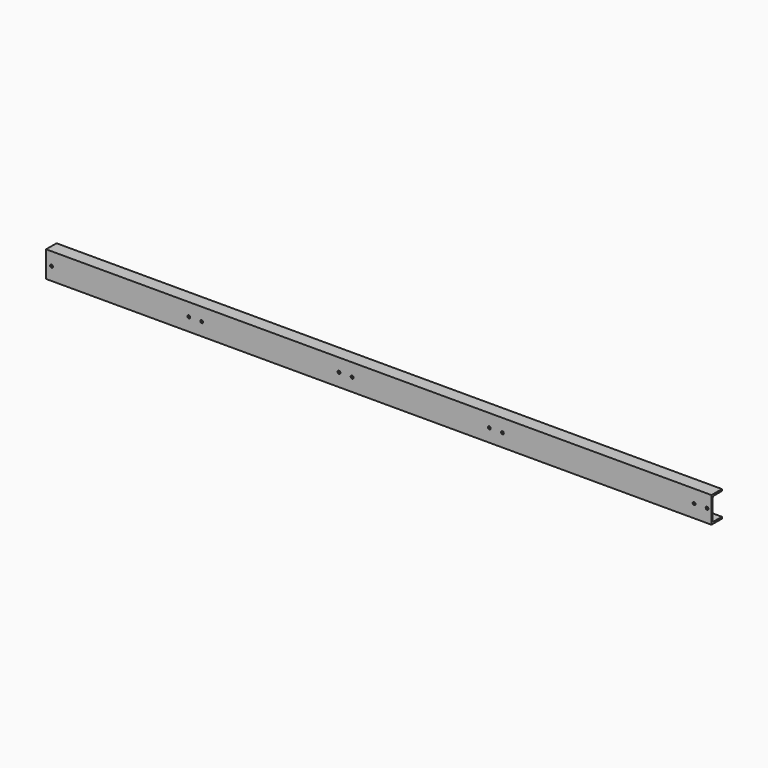
from build123d import *

# Parameters (mm, degrees)
F3_DEPTH = 3055
F4_R     = 6.5
F5_DEPTH = 8
F6_R     = 6.5
F7_DEPTH = 60.001


with BuildPart() as f3:
    # F2 (on Right) → F3 (new body)
    with BuildSketch(Plane.YZ):
        with BuildLine():
            Line((-60, 0), (0, 0))
            Line((0, 0), (0, 8))
            Line((0, 8), (-43, 8))
            ThreePointArc((-43, 8), (-51.4852813742, 11.5147186258), (-55, 20))
            Line((-55, 20), (-55, 100))
            ThreePointArc((-55, 100), (-51.4852813742, 108.4852813742), (-43, 112))
            Line((-43, 112), (0, 112))
            Line((0, 112), (0, 120))
            Line((0, 120), (-60, 120))
            Line((-60, 120), (-60, 0))
        make_face()
    extrude(amount=-F3_DEPTH)

    # F4 (on face) → F5 (cut, through all)
    with BuildSketch(Plane.XY.offset(8)):
        with Locations((-215, -20)):
            Circle(F4_R)
        with Locations((-395, -20)):
            Circle(F4_R)
        with Locations((-2970, -20)):
            Circle(F4_R)
    extrude(amount=-F5_DEPTH, mode=Mode.SUBTRACT)

    # F6 (on face) → F7 (cut, through all)
    with BuildSketch(Plane.XZ.offset(60)):
        with Locations((-20, 60)):
            Circle(F6_R)
        with Locations((-80, 60)):
            Circle(F6_R)
        with Locations((-960, 60)):
            Circle(F6_R)
        with Locations((-1020, 60)):
            Circle(F6_R)
        with Locations((-1650, 60)):
            Circle(F6_R)
        with Locations((-1710, 60)):
            Circle(F6_R)
        with Locations((-2340, 60)):
            Circle(F6_R)
        with Locations((-2400, 60)):
            Circle(F6_R)
        with Locations((-3030, 60)):
            Circle(F6_R)
    extrude(amount=-F7_DEPTH, mode=Mode.SUBTRACT)


solid = f3.part
